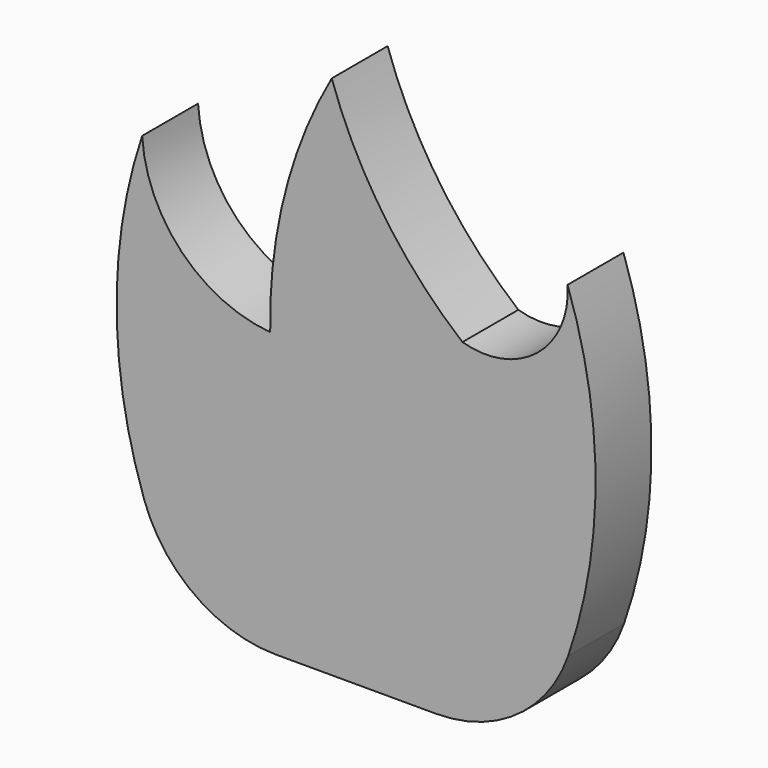
from build123d import *

# Parameters (mm, degrees)
F1_DEPTH = 12.7
F2_R     = 25.4
F3_R     = 25.4


with BuildPart() as f1:
    # F0 (on Front) → F1 (new body)
    with BuildSketch(Plane.XZ):
        with BuildLine():
            ThreePointArc((-34.945074, 46.127506), (-51.027386, 53.720366), (-58.223099, 69.984252))
            ThreePointArc((-58.223099, 69.984252), (-62.31415, 31.507538), (-49.854971, -5.125275))
            Line((-49.854971, -5.125275), (11.182429, -5.125275))
            ThreePointArc((11.182429, -5.125275), (23.71529, 32.192738), (19.103313, 71.28796))
            ThreePointArc((19.103313, 71.28796), (13.57664, 58.599304), (0, 55.912126))
            ThreePointArc((0, 55.912126), (-14.268957, 71.506168), (-23.762649, 90.391271))
            ThreePointArc((-23.762649, 90.391271), (-32.331491, 69.011631), (-34.945074, 46.127506))
        make_face()
    extrude(amount=F1_DEPTH)

    # F2
    f2_edges = [f1.edges().sort_by_distance(p)[0] for p in [
        (-49.854971, -6.35, -5.125275),
    ]]
    fillet(f2_edges, radius=F2_R)

    # F3
    f3_edges = [f1.edges().sort_by_distance(p)[0] for p in [
        (11.182429, -6.35, -5.125275),
    ]]
    fillet(f3_edges, radius=F3_R)


solid = f1.part
